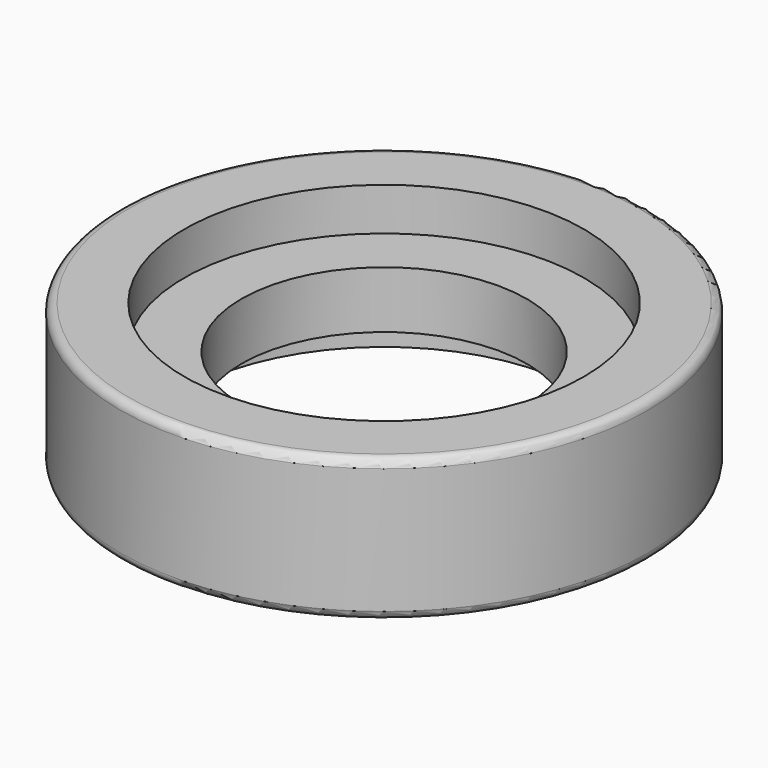
from build123d import *

# Parameters (mm, degrees)
F0_R     = 9.25
F0_R_2   = 7
F1_DEPTH = 2.5
F0_R_3   = 5
F2_DEPTH = 1
F3_R     = 0.3


with BuildPart() as f1:
    # F0 (on Top) → F1 (new body, symmetric)
    with BuildSketch(Plane.XY):
        Circle(F0_R)
        Circle(F0_R_2, mode=Mode.SUBTRACT)
    extrude(amount=F1_DEPTH, both=True)

    # F0 (on Top) → F2 (join, symmetric)
    with BuildSketch(Plane.XY):
        Circle(F0_R_2)
        Circle(F0_R_3, mode=Mode.SUBTRACT)
    extrude(amount=F2_DEPTH, both=True)

    # F3
    f3_edges = [f1.edges().sort_by_distance(p)[0] for p in [
        (-9.25, 0, 2.5),
        (-9.25, 0, -2.5),
    ]]
    fillet(f3_edges, radius=F3_R)


solid = f1.part
